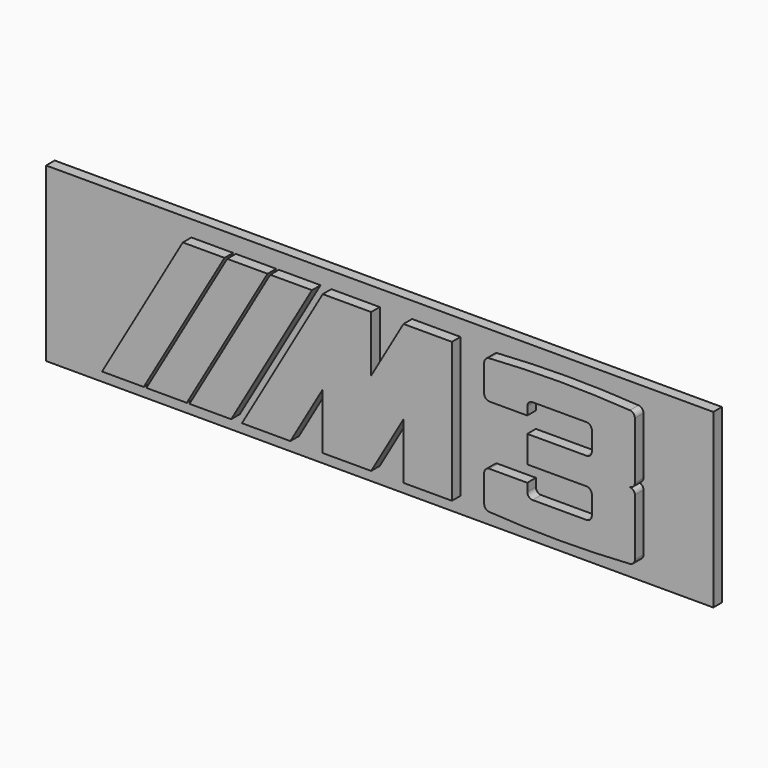
from build123d import *

# Parameters (mm, degrees)
F0_W     = 98.425
F0_H     = 25.4
F1_DEPTH = 1.5875
F3_DEPTH = 1.5875
F5_DEPTH = 1.5875


with BuildPart() as f1:
    # F0 (on Front) → F1 (new body)
    with BuildSketch(Plane.XZ):
        with Locations((49.2125, 12.7)):
            Rectangle(F0_W, F0_H)
    extrude(amount=F1_DEPTH)

    # F2 (on face) → F3 (join)
    with BuildSketch(Plane.XZ.offset(1.5875)):
        Polygon((21.440066, 23.01875), (9.525, 2.38125), (28.575, 2.38125), (40.490066, 23.01875), align=None)
        Polygon((42.077566, 23.01875), (30.1625, 2.38125), (37.30625, 2.38125), (42.077566, 10.645412), (42.077566, 2.38125), (49.221316, 2.38125), (53.992632, 10.645412), (53.992632, 2.38125), (61.136382, 2.38125), (61.136382, 23.01875), (53.992632, 23.01875), (49.221316, 14.754588), (49.221316, 23.01875), align=None)
        with BuildLine():
            ThreePointArc((66.639783, 22.673089), (66.112983, 22.42336), (65.898882, 21.881101))
            Line((65.898882, 21.881101), (65.898882, 17.859375))
            ThreePointArc((65.898882, 17.859375), (66.131366, 17.298109), (66.692632, 17.065625))
            Line((66.692632, 17.065625), (72.248882, 17.065625))
            Line((72.248882, 17.065625), (72.248882, 18.25625))
            ThreePointArc((72.248882, 18.25625), (72.481366, 18.817516), (73.042632, 19.05))
            Line((73.042632, 19.05), (80.980132, 19.05))
            ThreePointArc((80.980132, 19.05), (81.541398, 18.817516), (81.773882, 18.25625))
            Line((81.773882, 18.25625), (81.773882, 15.478125))
            ThreePointArc((81.773882, 15.478125), (81.541398, 14.916859), (80.980132, 14.684375))
            Line((80.980132, 14.684375), (72.248882, 14.684375))
            Line((72.248882, 14.684375), (72.248882, 10.715625))
            Line((72.248882, 10.715625), (80.980132, 10.715625))
            ThreePointArc((80.980132, 10.715625), (81.541398, 10.483141), (81.773882, 9.921875))
            Line((81.773882, 9.921875), (81.773882, 7.14375))
            ThreePointArc((81.773882, 7.14375), (81.541398, 6.582484), (80.980132, 6.35))
            Line((80.980132, 6.35), (73.042632, 6.35))
            ThreePointArc((73.042632, 6.35), (72.481366, 6.582484), (72.248882, 7.14375))
            Line((72.248882, 7.14375), (72.248882, 8.334375))
            Line((72.248882, 8.334375), (66.692632, 8.334375))
            ThreePointArc((66.692632, 8.334375), (66.131366, 8.101891), (65.898882, 7.540625))
            Line((65.898882, 7.540625), (65.898882, 3.518899))
            ThreePointArc((65.898882, 3.518899), (66.112983, 2.97664), (66.639783, 2.726911))
            ThreePointArc((66.639783, 2.726911), (77.011382, 2.38125), (87.382981, 2.726911))
            ThreePointArc((87.382981, 2.726911), (87.909782, 2.97664), (88.123882, 3.518899))
            Line((88.123882, 3.518899), (88.123882, 11.90625))
            ThreePointArc((88.123882, 11.90625), (87.891398, 12.467516), (87.330132, 12.7))
            ThreePointArc((87.330132, 12.7), (87.891398, 12.932484), (88.123882, 13.49375))
            Line((88.123882, 13.49375), (88.123882, 16.867188))
            Line((88.123882, 16.867188), (88.123882, 21.881101))
            ThreePointArc((88.123882, 21.881101), (87.909782, 22.42336), (87.382981, 22.673089))
            ThreePointArc((87.382981, 22.673089), (77.011382, 23.01875), (66.639783, 22.673089))
        make_face()
    extrude(amount=F3_DEPTH)

    # F4 (on face) → F5 (cut, through all)
    with BuildSketch(Plane.XZ.offset(3.175)):
        Polygon((22.423438, 2.38125), (34.338504, 23.01875), (33.941629, 23.01875), (22.026563, 2.38125), align=None)
        Polygon((16.073437, 2.38125), (27.988504, 23.01875), (27.591629, 23.01875), (15.676563, 2.38125), align=None)
    extrude(amount=-F5_DEPTH, mode=Mode.SUBTRACT)


solid = f1.part
